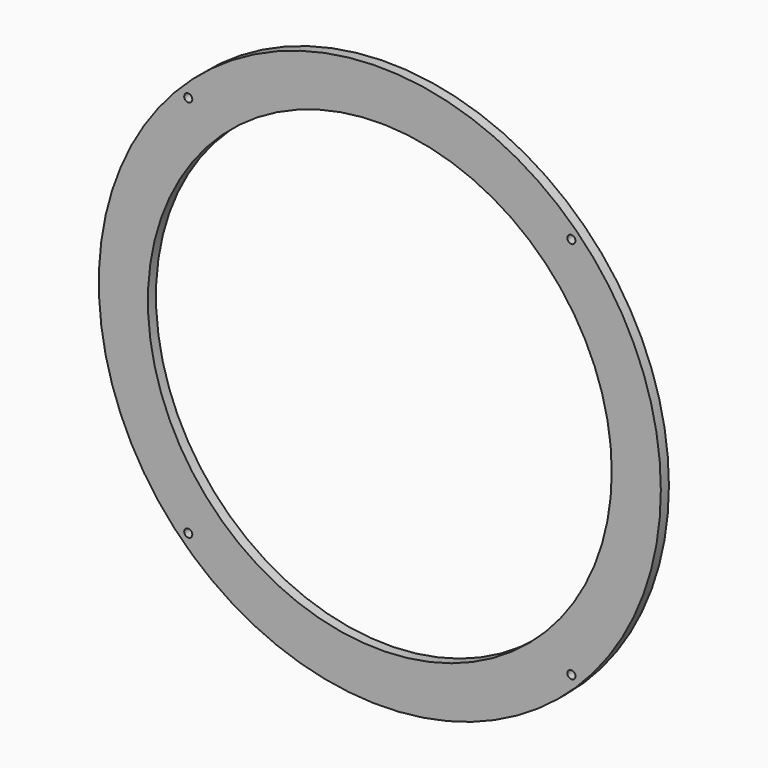
from build123d import *

# Parameters (mm, degrees)
F0_R     = 139.350288
F0_R_2   = 2
F0_R_3   = 115
F1_DEPTH = 5


with BuildPart() as f1:
    # F0 (on Front) → F1 (new body)
    with BuildSketch(Plane.XZ):
        Circle(F0_R)
        with Locations((-95, -95)):
            Circle(F0_R_2, mode=Mode.SUBTRACT)
        with Locations((95, -95)):
            Circle(F0_R_2, mode=Mode.SUBTRACT)
        with Locations((-95, 95)):
            Circle(F0_R_2, mode=Mode.SUBTRACT)
        Circle(F0_R_3, mode=Mode.SUBTRACT)
        with Locations((95, 95)):
            Circle(F0_R_2, mode=Mode.SUBTRACT)
    extrude(amount=F1_DEPTH)


solid = f1.part
